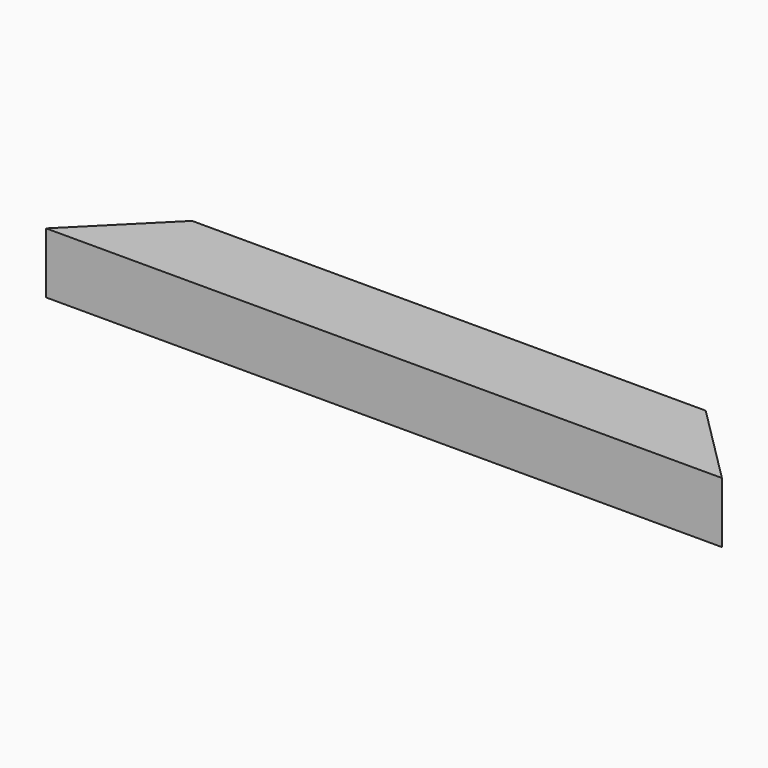
from build123d import *

# Parameters (mm, degrees)
EXTRUDE_DEPTH = 36


with BuildPart() as part:
    # Sketch → Extrude (new body)
    with BuildSketch(Plane.XY):
        Polygon((0, 0), (48, 48), (352, 48), (400, 0), align=None)
    extrude(amount=EXTRUDE_DEPTH)


solid = part.part
